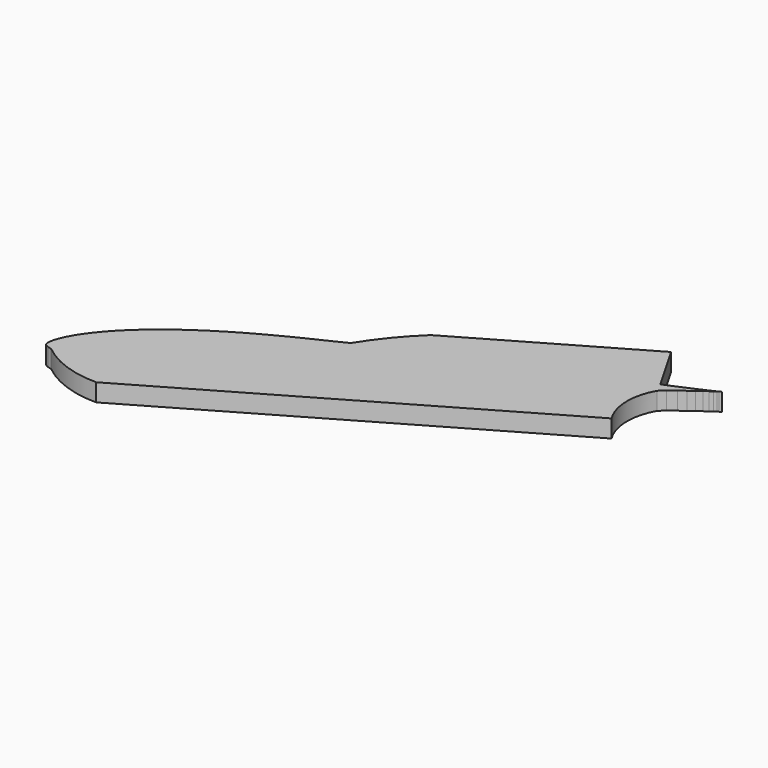
from build123d import *

# Parameters (mm, degrees)
PAD_DEPTH = 10


with BuildPart() as part:
    # Sketch → Pad (new body)
    with BuildSketch(Plane(origin=(0, 0, 0), x_dir=(0.866025, 0.5, 0), z_dir=(0, 0, 1))):
        with BuildLine():
            Line((301.034851, -0.014674), (299.858856, 0.018))
            Line((299.858856, 0.018), (298.818, 0.072))
            Line((298.818, 0.072), (297.342, 0.183))
            Line((297.342, 0.183), (295.287, 0.363))
            Line((295.287, 0.363), (292.659, 0.621))
            Line((292.659, 0.621), (289.467, 0.957))
            Line((289.467, 0.957), (285.723, 1.368))
            Line((285.723, 1.368), (281.445, 1.851))
            Line((281.445, 1.851), (276.648, 2.403))
            Line((276.648, 2.403), (273.162811, 3.038512))
            Line((273.162811, 34.144974), (273.162811, 3.038512))
            Line((273.162811, 34.144974), (166.153931, 34.144974))
            ThreePointArc((166.153931, 34.144974), (148.85588, 28.812612), (132.373183, 21.330808))
            Line((132.373183, 21.330808), (121.893, 22.038))
            Line((121.893, 22.038), (112.698, 22.761))
            Line((112.698, 22.761), (103.647, 23.322))
            Line((103.647, 23.322), (94.782, 23.703))
            Line((94.782, 23.703), (86.133, 23.886))
            Line((86.133, 23.886), (77.736, 23.856))
            Line((77.736, 23.856), (69.627, 23.607))
            Line((69.627, 23.607), (61.833, 23.127))
            Line((61.833, 23.127), (54.387, 22.419))
            Line((54.387, 22.419), (47.319, 21.486))
            Line((47.319, 21.486), (40.656, 20.34))
            Line((40.656, 20.34), (34.422, 18.996))
            Line((34.422, 18.996), (28.647, 17.472))
            Line((28.647, 17.472), (23.352, 15.798))
            Line((23.352, 15.798), (18.555, 13.998))
            Line((18.555, 13.998), (14.277, 12.105))
            Line((14.277, 12.105), (10.533, 10.155))
            Line((10.533, 10.155), (7.341, 8.184))
            Line((7.341, 8.184), (4.713, 6.246))
            Line((4.713, 6.246), (2.658, 4.41))
            Line((2.658, 4.41), (1.182, 2.745))
            Line((1.182, 2.745), (0.297, 1.281))
            Line((0.297, 1.281), (0, 0))
            Line((0, 0), (0.297, -1.17))
            Line((0.297, -1.17), (1.182, -2.301))
            Line((1.182, -2.301), (2.886778, -4.059651))
            ThreePointArc((2.886778, -4.059651), (12.612237, -20.403463), (27.278178, -32.511927))
            Line((27.278178, -32.511927), (256.779602, -32.435658))
            ThreePointArc((272.568004, -3.393518), (260.687772, -15.747631), (256.779602, -32.435658))
            Line((272.568004, -3.393518), (276.648, -2.355))
            Line((276.648, -2.355), (281.445, -1.827))
            Line((281.445, -1.827), (285.723, -1.359))
            Line((285.723, -1.359), (289.467, -0.954))
            Line((289.467, -0.954), (292.659, -0.618))
            Line((292.659, -0.618), (295.287, -0.363))
            Line((295.287, -0.363), (297.342, -0.183))
            Line((297.342, -0.183), (298.818, -0.072))
            Line((298.818, -0.072), (299.703, -0.018))
            Line((299.703, -0.018), (301.034851, -0.014674))
        make_face()
    extrude(amount=PAD_DEPTH)


solid = part.part
